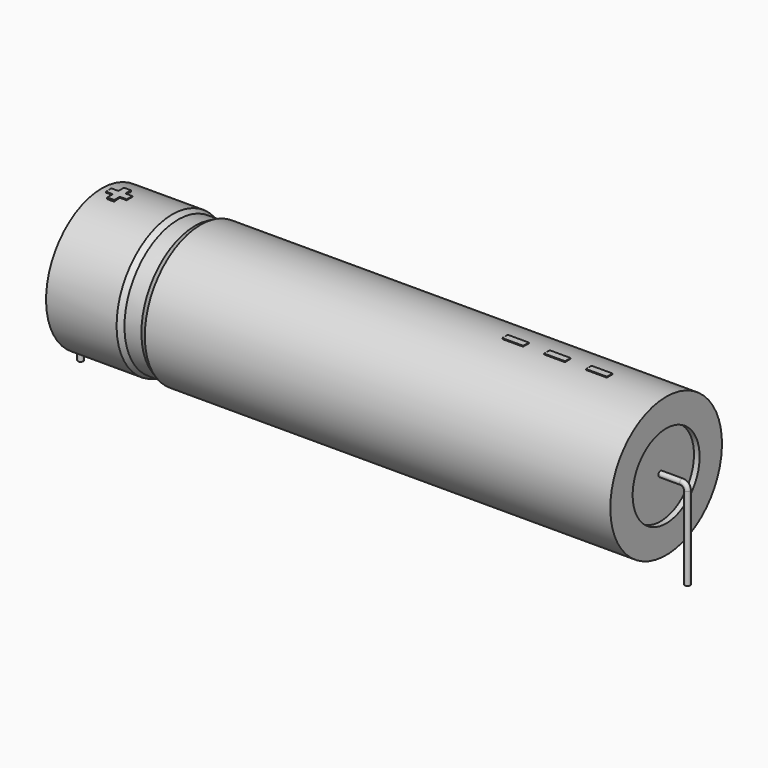
from build123d import *

# Parameters (mm, degrees)
SKETCH_R    = 0.45
SKETCH004_W = 3.45
SKETCH004_H = 1.15
PAD_DEPTH   = 11.615


with BuildPart() as sweep_body:
    # Sweep: sweep along a path in Sketch001
    with BuildLine(Plane.XZ) as sweep_path:
        Line((0, -3), (0, 10.7))
        ThreePointArc((0, 10.7), (0.263601, 11.336393), (0.899993, 11.6))
        Line((0.899993, 11.6), (99.1, 11.6))
        ThreePointArc((99.1, 11.6), (99.736396, 11.336396), (100, 10.7))
        Line((100, 10.7), (100, -3))
    # Sketch → Sweep (sweep)
    with BuildSketch(Plane.XY.offset(-2)):
        Circle(SKETCH_R)
    sweep(path=sweep_path.line)


with BuildPart() as revolution:
    # Sketch002 → Revolution (revolve)
    with BuildSketch(Plane.XZ):
        Polygon((3.5, 23.1), (3.5, 18.5), (96.5, 18.5), (96.5, 23.1), (19.775, 23.1), (18.845, 22.64), (16.055, 22.64), (15.125, 23.1), align=None)
    revolve(axis=Axis((6.97588, 0, 11.6), (1, 0, 0)))


with BuildPart() as revolution001:
    # Sketch003 → Revolution001 (revolve)
    with BuildSketch(Plane.XZ):
        Polygon((4.43, 22.64), (9.08, 22.64), (9.08, 12.75), (90.92, 12.75), (90.92, 22.64), (95.57, 22.64), (95.57, 11.6), (4.43, 11.6), align=None)
    revolve(axis=Axis((6.97588, 0, 11.6), (1, 0, 0)))


with BuildPart() as pad:
    # Sketch004 → Pad (new body)
    with BuildSketch(Plane.XY.offset(11.6)):
        with Locations((85.475, 0)):
            Rectangle(SKETCH004_W, SKETCH004_H)
        with Locations((78.575, 0)):
            Rectangle(SKETCH004_W, SKETCH004_H)
        with Locations((71.675, 0)):
            Rectangle(SKETCH004_W, SKETCH004_H)
        Polygon((5.766, 0.575), (4.616, 0.575), (4.616, -0.575), (5.766, -0.575), (5.766, -1.725), (6.916, -1.725), (6.916, -0.575), (8.066, -0.575), (8.066, 0.575), (6.916, 0.575), (6.916, 1.725), (5.766, 1.725), align=None)
    extrude(amount=PAD_DEPTH)


solid = Compound([sweep_body.part, revolution.part, revolution001.part, pad.part])
